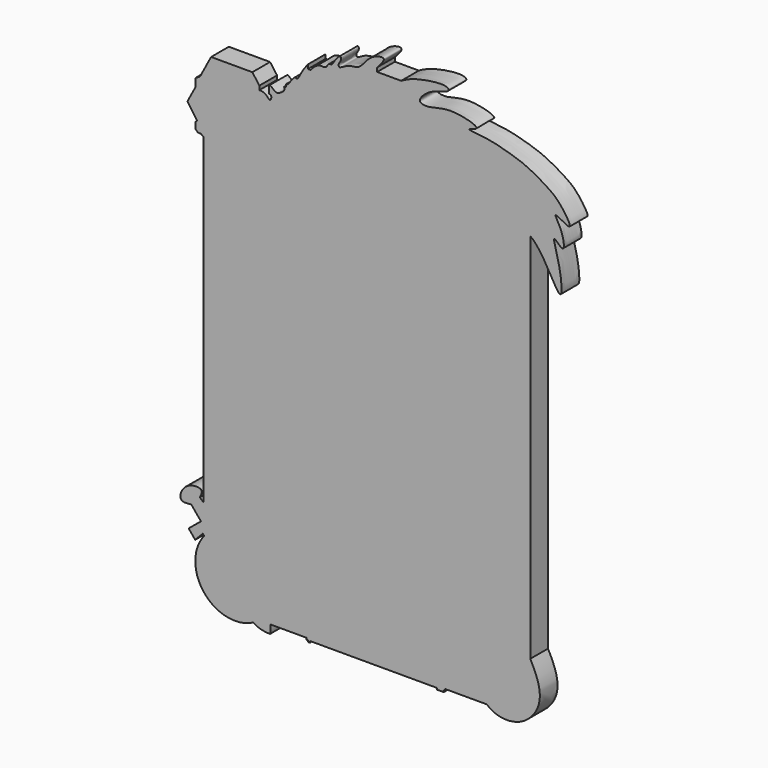
from build123d import *

# Parameters (mm, degrees)
F1_DEPTH = 10


with BuildPart() as f1:
    # F0 (on Front) → F1 (new body)
    with BuildSketch(Plane.XZ):
        with BuildLine():
            Line((-76.0343298316, 65.247066319), (-74.7528374195, 64.2593279481))
            Line((-74.7528374195, 64.2593279481), (-74.7528374195, -81.0113698244))
            Line((-74.7528374195, -81.0113698244), (-76.4635801315, -79.3801099062))
            add(Edge.make_bspline(
                [(-76.4635801315, -79.3801099062), (-75.8597014247, -78.1350723595), (-74.38388687, -75.0923346181), (-83.7251625502, -75.51256552), (-86.682822247, -84.2400434032), (-82.3701974138, -83.7052406592), (-80.3786143661, -83.4582671523)],
                knots=[0, 0, 0, 0, 0.1979871923, 0.4838593856, 0.7616447204, 1, 1, 1, 1], degree=3))
            Line((-80.3786143661, -83.4582671523), (-75.9954452515, -88.7595489621))
            Line((-75.9954452515, -88.7595489621), (-81.5646054561, -93.364203436))
            Line((-81.5646054561, -93.364203436), (-78.5966514293, -96.9538346556))
            Line((-78.5966514293, -96.9538346556), (-75.2071142197, -93.3802202344))
            Line((-75.2071142197, -93.3802202344), (-74.5216647549, -94.0303621334))
            ThreePointArc((-74.5216647549, -94.0303621334), (-74.5212508461, -116.7111503548), (-52.2965230048, -121.2365925312))
            add(Edge.make_bspline(
                [(-52.2965230048, -121.2365925312), (-49.9584451318, -123.0036988854), (-47.1661239862, -123.278349638), (-44.831559062, -123.3699023724)],
                knots=[0, 0, 0, 0, 7.7638068977, 7.7638068977, 7.7638068977, 7.7638068977], degree=3))
            add(Edge.make_bspline(
                [(-44.831559062, -123.3699023724), (-44.3737991154, -122.1797317266), (-44.4653518498, -120.85223943), (-44.6484573185, -119.5247396827)],
                knots=[0, 0, 0, 0, 3.8495197569, 3.8495197569, 3.8495197569, 3.8495197569], degree=3))
            Line((-44.6484573185, -119.5247396827), (-28.4194927663, -119.5247396827))
            Line((-28.4194927663, -119.5247396827), (-28.4194927663, -120.3006654978))
            Line((-28.4194927663, -120.3006654978), (-27.6496373117, -120.3006654978))
            Line((-27.6496373117, -120.3006654978), (-27.6496373117, -120.9935322404))
            Line((-27.6496373117, -120.9935322404), (-26.8027987331, -120.9935322404))
            Line((-26.8027987331, -120.9935322404), (-26.8027987331, -120.3006654978))
            Line((-26.8027987331, -120.3006654978), (30.4606929421, -120.3006654978))
            Line((30.4606929421, -120.3006654978), (30.4606929421, -120.9935322404))
            Line((30.4606929421, -120.9935322404), (33.5769616067, -120.9935322404))
            Line((33.5769616067, -120.9935322404), (33.5769616067, -120.3006654978))
            Line((33.5769616067, -120.3006654978), (34.2490971088, -120.3006654978))
            Line((34.2490971088, -120.3006654978), (34.2490971088, -119.5247396827))
            Line((34.2490971088, -119.5247396827), (53.0128441751, -119.5247396827))
            add(Edge.make_bspline(
                [(53.0128441751, -119.5247396827), (56.6867876337, -122.8738181923), (68.3834625305, -124.3927963951), (79.5146073452, -111.1328256453), (75.8216270291, -101.00524933), (72.6302986431, -95.0445234776)],
                knots=[0, 0, 0, 0, 0.326972941, 0.6494417501, 1, 1, 1, 1], degree=3))
            Line((72.6302986431, -95.0445234776), (72.6302986431, 72.9409110646))
            add(Edge.make_bspline(
                [(72.6302986431, 72.9409110646), (78.3549974252, 69.1069244126), (88.1050849711, 44.5848299603), (86.3183054465, 66.1108992051), (81.5031950886, 78.6900807549), (88.7209038255, 69.6386807005), (87.326265989, 80.1287945298), (81.4223562698, 87.5672452077), (93.8544902752, 78.9716576404), (85.8503073652, 90.9630870856), (80.9480973955, 94.5852914911), (70.61293057, 100.7728813906), (61.0315932807, 103.4216731792), (53.7741972923, 105.5144117546), (41.9204664331, 106.1296059585), (52.5846122111, 108.0453381737), (35.8845205713, 112.4914797344), (28.6314928232, 108.9837550589), (20.4762239158, 109.4879750129), (27.3751767133, 116.5985572916), (34.2474152025, 117.3461166133), (36.4057508864, 119.210898049), (33.2361782198, 121.0300498872), (19.6655584132, 118.6920033999), (15.6145416363, 116.3777809293), (14.3558174983, 115.6649505334)],
                knots=[0, 0, 0, 0, 0.0751699071, 0.1290019852, 0.1774196917, 0.2101287908, 0.2522511492, 0.2891097961, 0.3292028621, 0.3737293524, 0.417553629, 0.4706467031, 0.5197157012, 0.5671022215, 0.6088853764, 0.6378313385, 0.6902726511, 0.740578417, 0.7742949388, 0.8152395972, 0.8583222063, 0.878999413, 0.9027704318, 0.96132465, 1, 1, 1, 1], degree=3))
            Line((14.3558174983, 115.6649505334), (3.5425864626, 115.6649505334))
            Line((3.5425864626, 115.6649505334), (3.5425864626, 117.4869462848))
            add(Edge.make_bspline(
                [(3.5425864626, 117.4869462848), (5.0846447535, 119.1543024523), (8.7471655861, 123.1304023557), (-0.2206452735, 121.3863510411), (-4.0159812684, 113.8640204534), (-9.4710529705, 114.6769745125), (-14.0400530005, 110.9471539466), (-13.8524341575, 113.7582960261), (-12.6673817279, 114.546845304), (-12.7229314222, 117.6283436718), (-15.9034276402, 113.775034412), (-16.817964407, 111.6723404439), (-18.6124301024, 111.9948124068), (-19.4534811463, 109.3552615086), (-22.5270831738, 110.2321080539), (-25.0944355928, 108.3592830328), (-26.1025552777, 107.1422113961), (-26.4824256301, 106.6767647862)],
                knots=[0, 0, 0, 0, 0.0866936929, 0.1751413751, 0.2828301785, 0.3689028933, 0.4471591041, 0.4922917384, 0.5402891223, 0.5877363731, 0.6600691576, 0.7186318162, 0.7617854235, 0.8165361787, 0.8783462783, 0.9446788382, 1, 1, 1, 1], degree=3))
            Line((-26.4824256301, 106.6767647862), (-27.6867765933, 106.6767647862))
            Line((-27.6867765933, 106.6767647862), (-27.6867765933, 108.5460036993))
            add(Edge.make_bspline(
                [(-27.6867765933, 108.5460036993), (-30.804945156, 105.0067469478), (-32.0440618318, 100.2195935299), (-34.0418783598, 102.2051911967), (-36.4768639406, 97.0743698095), (-37.9268884434, 97.7417569788), (-37.1220876621, 95.9763435702), (-38.7909003179, 96.4972994372), (-37.8416565919, 94.9625062317), (-39.8457443547, 93.2469970355), (-42.4092535372, 92.0557374821), (-44.9577824606, 95.4304543419), (-45.17075076, 94.3109305772), (-45.2448092401, 93.9216241241)],
                knots=[0, 0, 0, 0, 0.1872471992, 0.2533638808, 0.3915470599, 0.4469292053, 0.5117384042, 0.5691675388, 0.632083957, 0.7294736308, 0.8310772389, 0.9412583073, 1, 1, 1, 1], degree=3))
            Line((-45.2448092401, 93.9216241241), (-45.2448092401, 91.1564007401))
            add(Edge.make_bspline(
                [(-45.2448092401, 91.1564007401), (-44.8939720418, 91.0490330045), (-44.1457111781, 90.8031771533), (-44.2599424272, 89.227672934), (-45.4190475442, 88.1185270879), (-46.4805178344, 91.1881104112), (-49.6369190514, 91.1564007401)],
                knots=[0, 0, 0, 0, 0.1878331088, 0.4078996431, 0.5754373916, 1, 1, 1, 1], degree=3))
            Line((-49.6369190514, 91.1564007401), (-49.6369190514, 92.947140336))
            Line((-49.6369190514, 92.947140336), (-52.7996351301, 97.2469747066))
            Line((-52.7996351301, 97.2469747066), (-71.4250355959, 97.2469747066))
            Line((-71.4250355959, 97.2469747066), (-76.4229595661, 87.8308936954))
            Line((-76.4229595661, 87.8308936954), (-78.5400867462, 86.5652486682))
            Line((-78.5400867462, 86.5652486682), (-78.5400867462, 82.8494802117))
            Line((-78.5400867462, 82.8494802117), (-82.099484963, 76.1435794897))
            Line((-82.099484963, 76.1435794897), (-77.6822566986, 69.7788745165))
            Line((-77.6822566986, 69.7788745165), (-78.5505382905, 69.1762703101))
            Line((-78.5505382905, 69.1762703101), (-78.5505382905, 66.4830133319))
            Line((-78.5505382905, 66.4830133319), (-77.4076059461, 65.247066319))
            Line((-77.4076059461, 65.247066319), (-76.0343298316, 65.247066319))
        make_face()
    extrude(amount=F1_DEPTH)


solid = f1.part
